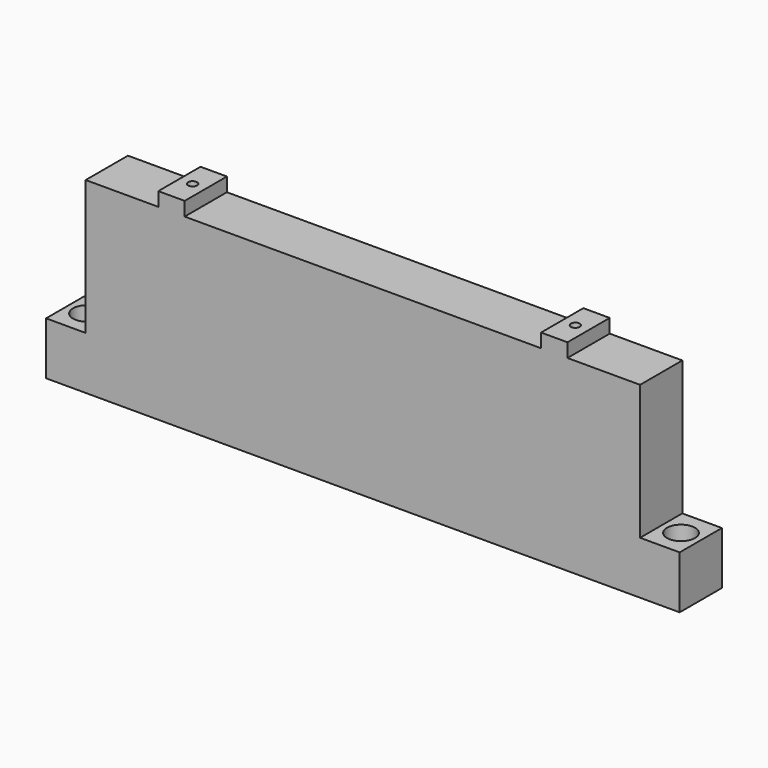
from build123d import *

# Parameters (mm, degrees)
F0_W      = 304.8
F0_H      = 25.4
F1_DEPTH  = 96.8248
F2_W      = 19.05
F2_H      = 25.4
F3_DEPTH  = 71.4248
F4_W      = 34.925
F4_H      = 25.4
F4_W_2    = 171.45
F5_DEPTH  = 6.6548
F6_R      = 2.159
F7_DEPTH  = 96.8258
F8_R      = 3.937
F9_DEPTH  = 93.98
F10_R     = 3.970807
F10_R_2   = 4.064
F11_DEPTH = 25.401
F10_R_3   = 6.731
F12_DEPTH = 12.7


with BuildPart() as f1:
    # F0 (on Top) → F1 (new body)
    with BuildSketch(Plane.XY):
        Rectangle(F0_W, F0_H)
    extrude(amount=F1_DEPTH)

    # F2 (on face) → F3 (cut)
    with BuildSketch(Plane.XY.offset(96.8248)):
        with Locations((-142.875, 0)):
            Rectangle(F2_W, F2_H)
        with Locations((142.875, 0)):
            Rectangle(F2_W, F2_H)
    extrude(amount=-F3_DEPTH, mode=Mode.SUBTRACT)

    # F4 (on face) → F5 (cut)
    with BuildSketch(Plane.XY.offset(96.8248)):
        with Locations((-115.8875, 0)):
            Rectangle(F4_W, F4_H)
        Rectangle(F4_W_2, F4_H)
        with Locations((115.8875, 0)):
            Rectangle(F4_W, F4_H)
    extrude(amount=-F5_DEPTH, mode=Mode.SUBTRACT)

    # F6 (on face) → F7 (cut, through all)
    with BuildSketch(Plane(origin=(0, 0, 0), x_dir=(1, 0, 0), z_dir=(0, 0, -1))):
        with Locations((-92.075, 0)):
            Circle(F6_R)
        with Locations((92.075, 0)):
            Circle(F6_R)
    extrude(amount=-F7_DEPTH, mode=Mode.SUBTRACT)

    # F8 (on face) → F9 (cut)
    with BuildSketch(Plane(origin=(0, 0, 0), x_dir=(1, 0, 0), z_dir=(0, 0, -1))):
        with Locations((-92.075, 0)):
            Circle(F8_R)
        with Locations((92.075, 0)):
            Circle(F8_R)
    extrude(amount=-F9_DEPTH, mode=Mode.SUBTRACT)

    # F10 (on face) → F11 (cut, through all)
    with BuildSketch(Plane.XY.offset(25.4)):
        with Locations((142.875, 0)):
            Circle(F10_R)
        with Locations((-142.875, 0)):
            Circle(F10_R_2)
    extrude(amount=-F11_DEPTH, mode=Mode.SUBTRACT)

    # F10 (on face) → F12 (cut)
    with BuildSketch(Plane.XY.offset(25.4)):
        with Locations((-142.875, 0)):
            Circle(F10_R_3)
        with Locations((-142.875, 0)):
            Circle(F10_R_2, mode=Mode.SUBTRACT)
        with Locations((142.875, 0)):
            Circle(F10_R_3)
        with Locations((142.875, 0)):
            Circle(F10_R, mode=Mode.SUBTRACT)
    extrude(amount=-F12_DEPTH, mode=Mode.SUBTRACT)


solid = f1.part
